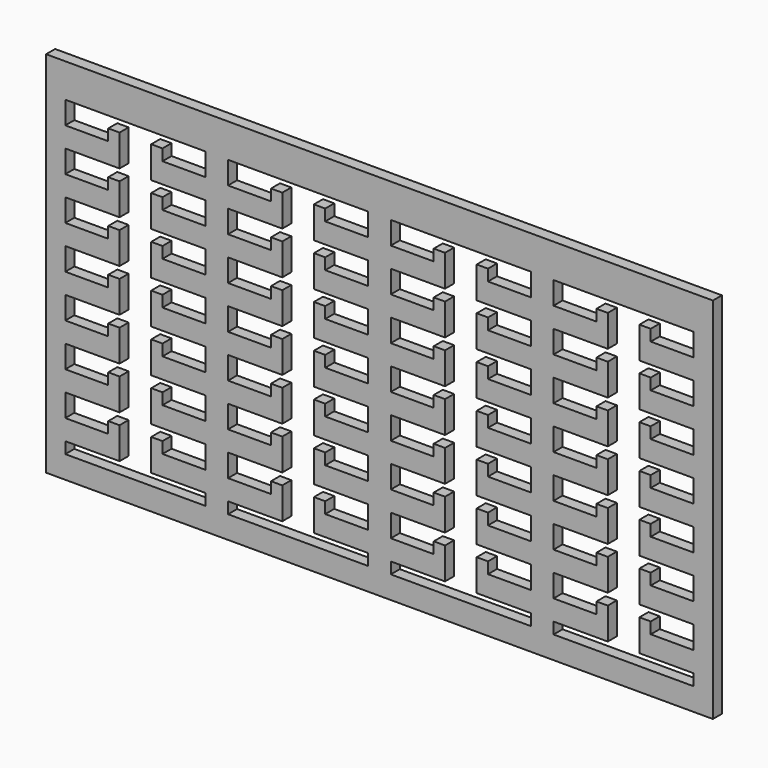
from build123d import *

# Parameters (mm, degrees)
F0_W     = 374.65
F0_H     = 207.01
F1_DEPTH = 6.35


with BuildPart() as f1:
    # F0 (on Front) → F1 (new body)
    with BuildSketch(Plane.XZ):
        with Locations((-190.669771, -13.371272)):
            Rectangle(F0_W, F0_H)
        Polygon((-367.199771, -86.332772), (-367.199771, -73.632772), (-336.719771, -73.632772), (-336.719771, -55.852772), (-343.069771, -55.852772), (-343.069771, -62.202772), (-367.199771, -62.202772), (-367.199771, -49.502772), (-336.719771, -49.502772), (-336.719771, -31.722772), (-343.069771, -31.722772), (-343.069771, -38.072772), (-367.199771, -38.072772), (-367.199771, -25.372772), (-336.719771, -25.372772), (-336.719771, -7.592772), (-343.069771, -7.592772), (-343.069771, -13.942772), (-367.199771, -13.942772), (-367.199771, -1.242772), (-336.719771, -1.242772), (-336.719771, 16.537228), (-343.069771, 16.537228), (-343.069771, 10.187228), (-367.199771, 10.187228), (-367.199771, 22.887228), (-336.719771, 22.887228), (-336.719771, 40.667228), (-343.069771, 40.667228), (-343.069771, 34.317228), (-367.199771, 34.317228), (-367.199771, 47.017228), (-336.719771, 47.017228), (-336.719771, 64.797228), (-343.069771, 64.797228), (-343.069771, 58.447228), (-367.199771, 58.447228), (-367.199771, 71.147228), (-288.459771, 71.147228), (-288.459771, 58.447228), (-312.589771, 58.447228), (-312.589771, 64.797228), (-318.939771, 64.797228), (-318.939771, 47.017228), (-288.459771, 47.017228), (-288.459771, 34.317228), (-312.589771, 34.317228), (-312.589771, 40.667228), (-318.939771, 40.667228), (-318.939771, 22.887228), (-288.459771, 22.887228), (-288.459771, 10.187228), (-312.589771, 10.187228), (-312.589771, 16.537228), (-318.939771, 16.537228), (-318.939771, -1.242772), (-288.459771, -1.242772), (-288.459771, -13.942772), (-312.589771, -13.942772), (-312.589771, -7.592772), (-318.939771, -7.592772), (-318.939771, -25.372772), (-288.459771, -25.372772), (-288.459771, -38.072772), (-312.589771, -38.072772), (-312.589771, -31.722772), (-318.939771, -31.722772), (-318.939771, -49.502772), (-288.459771, -49.502772), (-288.459771, -62.202772), (-312.589771, -62.202772), (-312.589771, -55.852772), (-318.939771, -55.852772), (-318.939771, -73.632772), (-288.459771, -73.632772), (-288.459771, -86.332772), (-312.589771, -86.332772), (-312.589771, -79.982772), (-318.939771, -79.982772), (-318.939771, -97.762772), (-288.459771, -97.762772), (-288.459771, -104.176272), (-367.199771, -104.176272), (-367.199771, -97.762772), (-336.719771, -97.762772), (-336.719771, -79.982772), (-343.069771, -79.982772), (-343.069771, -86.332772), align=None, mode=Mode.SUBTRACT)
        Polygon((-275.759771, 71.147228), (-197.019771, 71.147228), (-197.019771, 58.447228), (-221.149771, 58.447228), (-221.149771, 64.797228), (-227.499771, 64.797228), (-227.499771, 47.017228), (-197.019771, 47.017228), (-197.019771, 34.317228), (-221.149771, 34.317228), (-221.149771, 40.667228), (-227.499771, 40.667228), (-227.499771, 22.887228), (-197.019771, 22.887228), (-197.019771, 10.187228), (-221.149771, 10.187228), (-221.149771, 16.537228), (-227.499771, 16.537228), (-227.499771, -1.242772), (-197.019771, -1.242772), (-197.019771, -13.942772), (-221.149771, -13.942772), (-221.149771, -7.592772), (-227.499771, -7.592772), (-227.499771, -25.372772), (-197.019771, -25.372772), (-197.019771, -38.072772), (-221.149771, -38.072772), (-221.149771, -31.722772), (-227.499771, -31.722772), (-227.499771, -49.502772), (-197.019771, -49.502772), (-197.019771, -62.202772), (-221.149771, -62.202772), (-221.149771, -55.852772), (-227.499771, -55.852772), (-227.499771, -73.632772), (-197.019771, -73.632772), (-197.019771, -86.332772), (-221.149771, -86.332772), (-221.149771, -79.982772), (-227.499771, -79.982772), (-227.499771, -97.762772), (-197.019771, -97.762772), (-197.019771, -104.176272), (-275.759771, -104.176272), (-275.759771, -97.762772), (-245.279771, -97.762772), (-245.279771, -79.982772), (-251.629771, -79.982772), (-251.629771, -86.332772), (-275.759771, -86.332772), (-275.759771, -73.632772), (-245.279771, -73.632772), (-245.279771, -55.852772), (-251.629771, -55.852772), (-251.629771, -62.202772), (-275.759771, -62.202772), (-275.759771, -49.502772), (-245.279771, -49.502772), (-245.279771, -31.722772), (-251.629771, -31.722772), (-251.629771, -38.072772), (-275.759771, -38.072772), (-275.759771, -25.372772), (-245.279771, -25.372772), (-245.279771, -7.592772), (-251.629771, -7.592772), (-251.629771, -13.942772), (-275.759771, -13.942772), (-275.759771, -1.242772), (-245.279771, -1.242772), (-245.279771, 16.537228), (-251.629771, 16.537228), (-251.629771, 10.187228), (-275.759771, 10.187228), (-275.759771, 22.887228), (-245.279771, 22.887228), (-245.279771, 40.667228), (-251.629771, 40.667228), (-251.629771, 34.317228), (-275.759771, 34.317228), (-275.759771, 47.017228), (-245.279771, 47.017228), (-245.279771, 64.797228), (-251.629771, 64.797228), (-251.629771, 58.447228), (-275.759771, 58.447228), align=None, mode=Mode.SUBTRACT)
        Polygon((-184.319771, -86.332772), (-184.319771, -73.632772), (-153.839771, -73.632772), (-153.839771, -55.852772), (-160.189771, -55.852772), (-160.189771, -62.202772), (-184.319771, -62.202772), (-184.319771, -49.502772), (-153.839771, -49.502772), (-153.839771, -31.722772), (-160.189771, -31.722772), (-160.189771, -38.072772), (-184.319771, -38.072772), (-184.319771, -25.372772), (-153.839771, -25.372772), (-153.839771, -7.592772), (-160.189771, -7.592772), (-160.189771, -13.942772), (-184.319771, -13.942772), (-184.319771, -1.242772), (-153.839771, -1.242772), (-153.839771, 16.537228), (-160.189771, 16.537228), (-160.189771, 10.187228), (-184.319771, 10.187228), (-184.319771, 22.887228), (-153.839771, 22.887228), (-153.839771, 40.667228), (-160.189771, 40.667228), (-160.189771, 34.317228), (-184.319771, 34.317228), (-184.319771, 47.017228), (-153.839771, 47.017228), (-153.839771, 64.797228), (-160.189771, 64.797228), (-160.189771, 58.447228), (-184.319771, 58.447228), (-184.319771, 71.147228), (-105.579771, 71.147228), (-105.579771, 58.447228), (-129.709771, 58.447228), (-129.709771, 64.797228), (-136.059771, 64.797228), (-136.059771, 47.017228), (-105.579771, 47.017228), (-105.579771, 34.317228), (-129.709771, 34.317228), (-129.709771, 40.667228), (-136.059771, 40.667228), (-136.059771, 22.887228), (-105.579771, 22.887228), (-105.579771, 10.187228), (-129.709771, 10.187228), (-129.709771, 16.537228), (-136.059771, 16.537228), (-136.059771, -1.242772), (-105.579771, -1.242772), (-105.579771, -13.942772), (-129.709771, -13.942772), (-129.709771, -7.592772), (-136.059771, -7.592772), (-136.059771, -25.372772), (-105.579771, -25.372772), (-105.579771, -38.072772), (-129.709771, -38.072772), (-129.709771, -31.722772), (-136.059771, -31.722772), (-136.059771, -49.502772), (-105.579771, -49.502772), (-105.579771, -62.202772), (-129.709771, -62.202772), (-129.709771, -55.852772), (-136.059771, -55.852772), (-136.059771, -73.632772), (-105.579771, -73.632772), (-105.579771, -86.332772), (-129.709771, -86.332772), (-129.709771, -79.982772), (-136.059771, -79.982772), (-136.059771, -97.762772), (-105.579771, -97.762772), (-105.579771, -104.176272), (-184.319771, -104.176272), (-184.319771, -97.762772), (-153.839771, -97.762772), (-153.839771, -79.982772), (-160.189771, -79.982772), (-160.189771, -86.332772), align=None, mode=Mode.SUBTRACT)
        Polygon((-92.879771, -86.332772), (-92.879771, -73.632772), (-62.399771, -73.632772), (-62.399771, -55.852772), (-68.749771, -55.852772), (-68.749771, -62.202772), (-92.879771, -62.202772), (-92.879771, -49.502772), (-62.399771, -49.502772), (-62.399771, -31.722772), (-68.749771, -31.722772), (-68.749771, -38.072772), (-92.879771, -38.072772), (-92.879771, -25.372772), (-62.399771, -25.372772), (-62.399771, -7.592772), (-68.749771, -7.592772), (-68.749771, -13.942772), (-92.879771, -13.942772), (-92.879771, -1.242772), (-62.399771, -1.242772), (-62.399771, 16.537228), (-68.749771, 16.537228), (-68.749771, 10.187228), (-92.879771, 10.187228), (-92.879771, 22.887228), (-62.399771, 22.887228), (-62.399771, 40.667228), (-68.749771, 40.667228), (-68.749771, 34.317228), (-92.879771, 34.317228), (-92.879771, 47.017228), (-62.399771, 47.017228), (-62.399771, 64.797228), (-68.749771, 64.797228), (-68.749771, 58.447228), (-92.879771, 58.447228), (-92.879771, 71.147228), (-14.139771, 71.147228), (-14.139771, 58.447228), (-38.269771, 58.447228), (-38.269771, 64.797228), (-44.619771, 64.797228), (-44.619771, 47.017228), (-14.139771, 47.017228), (-14.139771, 34.317228), (-38.269771, 34.317228), (-38.269771, 40.667228), (-44.619771, 40.667228), (-44.619771, 22.887228), (-14.139771, 22.887228), (-14.139771, 10.187228), (-38.269771, 10.187228), (-38.269771, 16.537228), (-44.619771, 16.537228), (-44.619771, -1.242772), (-14.139771, -1.242772), (-14.139771, -13.942772), (-38.269771, -13.942772), (-38.269771, -7.592772), (-44.619771, -7.592772), (-44.619771, -25.372772), (-14.139771, -25.372772), (-14.139771, -38.072772), (-38.269771, -38.072772), (-38.269771, -31.722772), (-44.619771, -31.722772), (-44.619771, -49.502772), (-14.139771, -49.502772), (-14.139771, -62.202772), (-38.269771, -62.202772), (-38.269771, -55.852772), (-44.619771, -55.852772), (-44.619771, -73.632772), (-14.139771, -73.632772), (-14.139771, -86.332772), (-38.269771, -86.332772), (-38.269771, -79.982772), (-44.619771, -79.982772), (-44.619771, -97.762772), (-14.139771, -97.762772), (-14.139771, -104.176272), (-92.879771, -104.176272), (-92.879771, -97.762772), (-62.399771, -97.762772), (-62.399771, -79.982772), (-68.749771, -79.982772), (-68.749771, -86.332772), align=None, mode=Mode.SUBTRACT)
    extrude(amount=F1_DEPTH)


solid = f1.part
